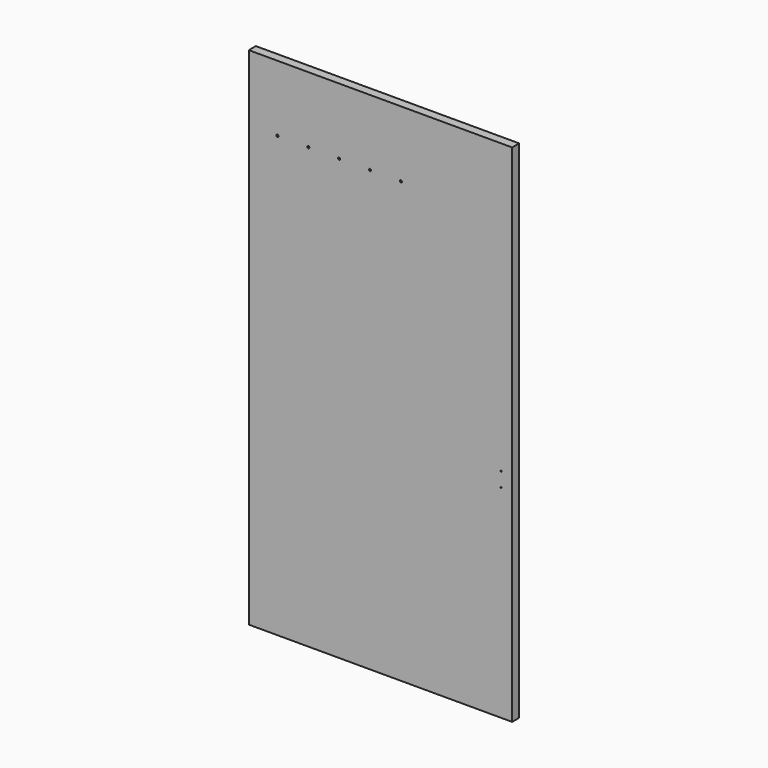
from build123d import *

# Parameters (mm, degrees)
F0_W     = 1517.65
F0_H     = 2914.65
F1_DEPTH = 50.8
F2_R     = 6.35
F3_DEPTH = 50.801
F4_R     = 3.175
F5_DEPTH = 50.801


with BuildPart() as f1:
    # F0 (on Front) → F1 (new body)
    with BuildSketch(Plane.XZ):
        with Locations((758.825, 1457.325)):
            Rectangle(F0_W, F0_H)
    extrude(amount=F1_DEPTH)

    # F2 (on face) → F3 (cut, through all)
    with BuildSketch(Plane.XZ.offset(50.8)):
        with Locations((165.1, 2533.65)):
            Circle(F2_R)
        with Locations((342.9, 2533.65)):
            Circle(F2_R)
        with Locations((520.7, 2533.65)):
            Circle(F2_R)
        with Locations((698.5, 2533.65)):
            Circle(F2_R)
        with Locations((876.3, 2533.65)):
            Circle(F2_R)
    extrude(amount=-F3_DEPTH, mode=Mode.SUBTRACT)

    # F4 (on face) → F5 (cut, through all)
    with BuildSketch(Plane.XZ.offset(50.8)):
        with Locations((1454.15, 1250.95)):
            Circle(F4_R)
        with Locations((1454.15, 1168.4)):
            Circle(F4_R)
    extrude(amount=-F5_DEPTH, mode=Mode.SUBTRACT)


solid = f1.part
